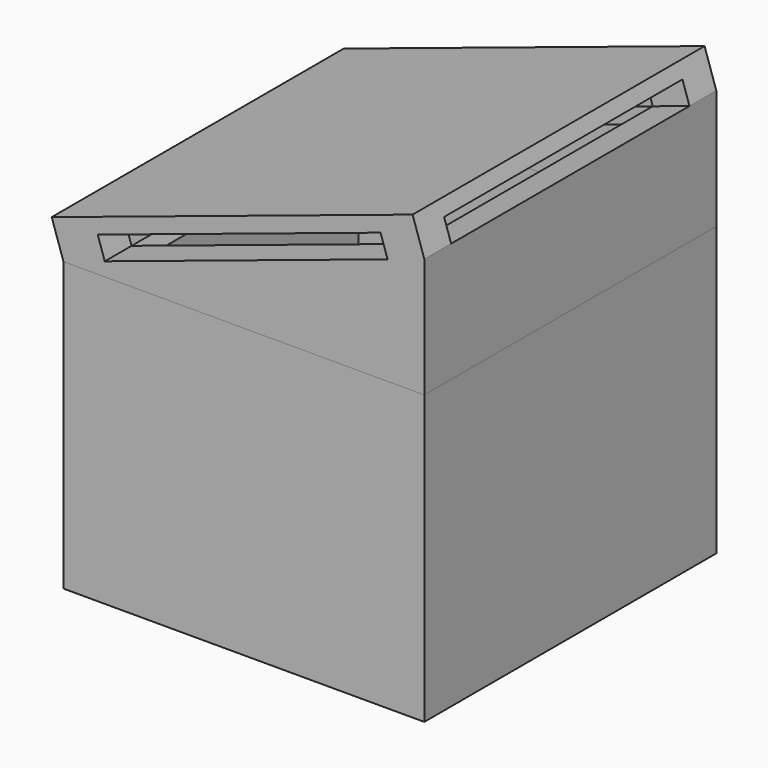
from build123d import *

# Parameters (mm, degrees)
F0_W      = 4845
F0_H      = 4900
F0_W_2    = 4445
F0_H_2    = 4500
F1_DEPTH  = 3865
F2_W      = 1000
F2_H      = 1000
F3_DEPTH  = 250
F5_DEPTH  = 4900
F6_T      = -200
F7_W      = 4000
F7_H      = 4000
F8_DEPTH  = 800
F9_W      = 584.5971388106
F9_H      = 450
F9_W_2    = 519.3278214528
F10_DEPTH = 300
F11_W     = 5103.9249602634
F11_H     = 4900
F12_DEPTH = 200
F0_W_3    = 1108.3028316498
F0_H_3    = 3665.9249663353
F13_DEPTH = 2000


with BuildPart() as f1:
    # F0 (on Top) → F1 (new body)
    with BuildSketch(Plane.XY):
        with Locations((2422.5, 2450)):
            Rectangle(F0_W, F0_H)
        with Locations((2422.5, 2450)):
            Rectangle(F0_W_2, F0_H_2, mode=Mode.SUBTRACT)
    extrude(amount=F1_DEPTH)

    # F2 (on face) → F3 (cut)
    with BuildSketch(Plane(origin=(0, 0, 0), x_dir=(0, -1, 0), z_dir=(-1, 0, 0))):
        with Locations((-2450, 1000)):
            Rectangle(F2_W, F2_H)
    extrude(amount=-F3_DEPTH, mode=Mode.SUBTRACT)


with BuildPart() as f5:
    # F4 (on face) → F5 (new body)
    with BuildSketch(Plane.XZ):
        Polygon((4845, 5470), (0, 3865), (4845, 3865), align=None)
    extrude(amount=-F5_DEPTH)

    # F6
    f6_openings = [f5.faces().sort_by_distance(p)[0] for p in [
        (2422.5, 2450, 3865),
    ]]
    offset(amount=F6_T, openings=f6_openings)

    # F7 (on face) → F8 (cut)
    with BuildSketch(Plane(origin=(-1153.7447960752, 0, 3482.7997115169), x_dir=(0.9492694422, 0, 0.3144638709), z_dir=(-0.3144638709, 0, 0.9492694422))):
        with Locations((3800, 2450)):
            Rectangle(F7_W, F7_H)
    extrude(amount=-F8_DEPTH, mode=Mode.SUBTRACT)

    # F9 (on face) → F10 (join)
    with BuildSketch(Plane(origin=(-1153.7447960752, 0, 3482.7997115169), x_dir=(0.9492694422, 0, 0.3144638709), z_dir=(-0.3144638709, 0, 0.9492694422))):
        with Locations((1507.7014305947, 4675)):
            Rectangle(F9_W, F9_H)
        with Locations((1507.7014305947, 225)):
            Rectangle(F9_W, F9_H)
        with Locations((6059.6639107264, 225)):
            Rectangle(F9_W_2, F9_H)
        with Locations((6059.6639107264, 4675)):
            Rectangle(F9_W_2, F9_H)
    extrude(amount=F10_DEPTH)

    # F11 (on face) → F12 (join)
    with BuildSketch(Plane(origin=(-1248.0839573577, 0, 3767.5805441733), x_dir=(0.9492694422, 0, 0.3144638709), z_dir=(-0.3144638709, 0, 0.9492694422))):
        with Locations((3767.3653413211, 2450)):
            Rectangle(F11_W, F11_H)
    extrude(amount=F12_DEPTH)


with BuildPart() as f13:
    # F0 (on Top) → F13 (new body)
    with BuildSketch(Plane.XY):
        with Locations((3009.805560112, 2388.4277641773)):
            Rectangle(F0_W_3, F0_H_3)
    extrude(amount=F13_DEPTH)


solid = Compound([f1.part, f5.part, f13.part])
